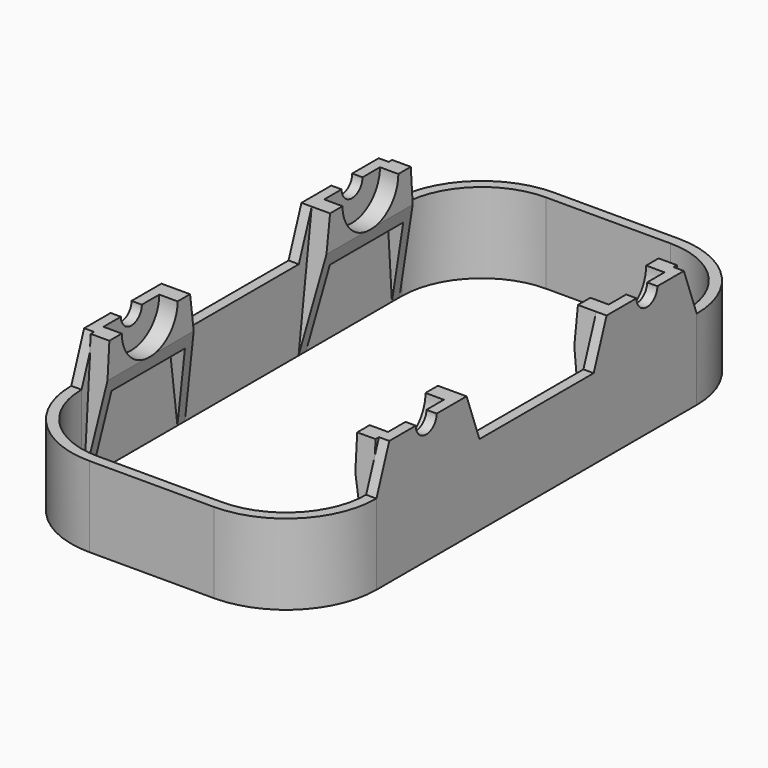
from build123d import *

# Parameters (mm, degrees)
PAD001_DEPTH         = 40
POCKET_DEPTH         = 101.001
PAD002_DEPTH         = 91.5
POCKET001_DEPTH      = 64
POCKET001_DEPTH_BACK = 64


with BuildPart() as part:
    # Sketch003 (on Sketch) → Pad001 (new body)
    with BuildSketch(Plane.XY):
        with BuildLine():
            Line((-20, -93.3), (20, -93.3))
            ThreePointArc((20, -93.3), (40.506097, -84.806097), (49, -64.3))
            Line((49, -64.3), (49, 64.3))
            ThreePointArc((49, 64.3), (40.506097, 84.806097), (20, 93.3))
            Line((20, 93.3), (-20, 93.3))
            ThreePointArc((-20, 93.3), (-40.506097, 84.806097), (-49, 64.3))
            Line((-49, 64.3), (-49, -64.3))
            ThreePointArc((-49, -64.3), (-40.506097, -84.806097), (-20, -93.3))
        make_face()
        with BuildLine():
            Line((-20, 90), (20, 90))
            ThreePointArc((45.7, 64.3), (38.172644, 82.472644), (20, 90))
            Line((45.7, 64.3), (45.7, -64.3))
            ThreePointArc((20, -90), (38.172644, -82.472644), (45.7, -64.3))
            Line((20, -90), (-20, -90))
            ThreePointArc((-45.7, -64.299999), (-38.172644, -82.472644), (-20, -90))
            Line((-45.7, -64.299999), (-45.7, 64.3))
            ThreePointArc((-20, 90), (-38.172644, 82.472644), (-45.7, 64.3))
        make_face(mode=Mode.SUBTRACT)
    extrude(amount=PAD001_DEPTH)

    # Sketch004 (on Face7 of Pad001) → Pocket (cut, through all)
    with BuildSketch(Plane(origin=(-52, 0, 0), x_dir=(0, -1, 0), z_dir=(-1, 0, 0))):
        with BuildLine():
            Line((-48.5, 40), (-59.133539, 40))
            Line((-59.133539, 40), (-64.3, 25.805264))
            Line((-64.3, 25.805264), (-99.376816, 25.805264))
            Line((-99.376816, 25.805264), (-99.376816, 55.805264))
            Line((-99.376816, 55.805264), (102.829521, 55.805264))
            Line((102.829521, 55.805264), (102.829521, 25.805264))
            Line((102.829521, 25.805264), (64.3, 25.805264))
            Line((64.3, 25.805264), (59.133539, 40))
            Line((59.133539, 40), (48.5, 40))
            ThreePointArc((40.1, 40), (44.3, 35.8), (48.5, 40))
            Line((28.1, 40), (40.1, 40))
            Line((22.933539, 25.805264), (28.1, 40))
            Line((-22.933539, 25.805264), (22.933539, 25.805264))
            Line((-28.1, 40), (-22.933539, 25.805264))
            Line((-40.1, 40), (-28.1, 40))
            ThreePointArc((-48.5, 40), (-44.3, 35.8), (-40.1, 40))
        make_face()
    extrude(amount=-POCKET_DEPTH, mode=Mode.SUBTRACT)

    # Sketch005 (on Face15 of Pocket) → Pad002 (join)
    with BuildSketch(Plane(origin=(45.7, 0, 0), x_dir=(0, -1, 0), z_dir=(-1, 0, 0))):
        with BuildLine():
            Line((-60.5, 40), (-63.300706, 0))
            Line((-63.300706, 0), (-60.300706, 0))
            Line((-60.300706, 0), (-58.565336, 24.784757))
            Line((-58.565336, 24.784757), (-29.090411, 24.784757))
            Line((-29.090411, 24.784757), (-25.816907, 0))
            Line((-25.816907, 0), (-22.816907, 0))
            Line((-22.816907, 0), (-28.1, 40))
            Line((-33.1, 40), (-28.1, 40))
            ThreePointArc((-55.5, 40), (-44.3, 28.8), (-33.1, 40))
            Line((-60.5, 40), (-55.5, 40))
        make_face()
        with BuildLine():
            Line((28.1, 40), (22.816907, 0))
            Line((25.816907, 0), (22.816907, 0))
            Line((29.090411, 24.784757), (25.816907, 0))
            Line((29.090411, 24.784757), (58.565336, 24.784757))
            Line((58.565336, 24.784757), (60.300706, 0))
            Line((60.300706, 0), (63.300706, 0))
            Line((63.300706, 0), (60.5, 40))
            Line((55.5, 40), (60.5, 40))
            ThreePointArc((33.1, 40), (44.3, 28.8), (55.5, 40))
            Line((28.1, 40), (33.1, 40))
        make_face()
    extrude(amount=PAD002_DEPTH)

    # Sketch006 → Pocket001 (cut, two sides)
    with BuildSketch(Plane.XZ) as pocket001_sk:
        Polygon((-39.8, 40), (-39.8, 29), (-45.7, 0), (45.7, 0), (39.8, 29), (39.8, 40), align=None)
    extrude(amount=-POCKET001_DEPTH, mode=Mode.SUBTRACT)
    extrude(pocket001_sk.sketch, amount=POCKET001_DEPTH_BACK, mode=Mode.SUBTRACT)


solid = part.part
